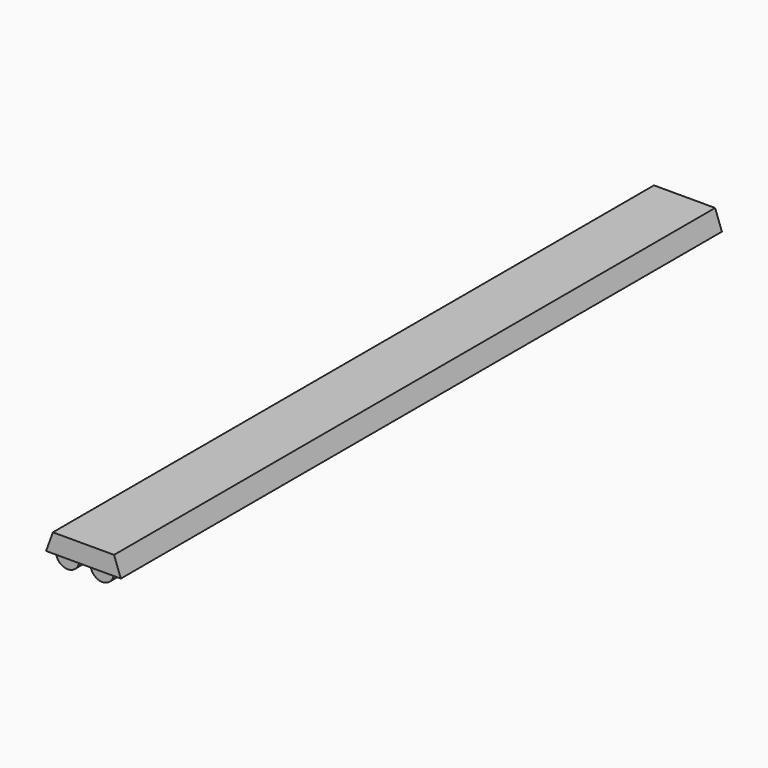
from build123d import *

# Parameters (mm, degrees)
F1_DEPTH = 609.6
F0_R     = 19.05
F4_DEPTH = 3.048


with BuildPart() as f1:
    # F0 (on Front) → F1 (new body, symmetric)
    with BuildSketch(Plane.XZ):
        Polygon((49.8661872596, 0), (0, 0), (0, -6.096), (45.9889498077, -6.096), (54.864, -30.48), (60.96, -30.48), align=None)
    extrude(amount=F1_DEPTH, both=True)



with BuildPart() as f1b:
    # F0 (on Front) → F1, piece 2 (new body, symmetric)
    with BuildSketch(Plane.XZ):
        with Locations((28.194, -28.194)):
            Circle(F0_R)
    extrude(amount=F1_DEPTH, both=True)


with BuildPart() as f1_1:
    add(f1.part)
    # F2: F1b, F1 across plane
    add(f1b.part.mirror(Plane.YZ))
    add(f1.part.mirror(Plane.YZ))


    add(f1b.part)  # F4 merges F1b
    # F3 (on face) → F4 (join)
    with BuildSketch(Plane.XZ.offset(609.6)):
        Polygon((49.8661872596, 0), (-49.8661872596, 0), (-60.96, -30.48), (60.96, -30.48), align=None)
    extrude(amount=F4_DEPTH)

    # F5: F1 across plane


with BuildPart() as f1_2:
    add(f1_1.part)
    add(f1_1.part.mirror(Plane.XZ))


solid = f1_2.part
